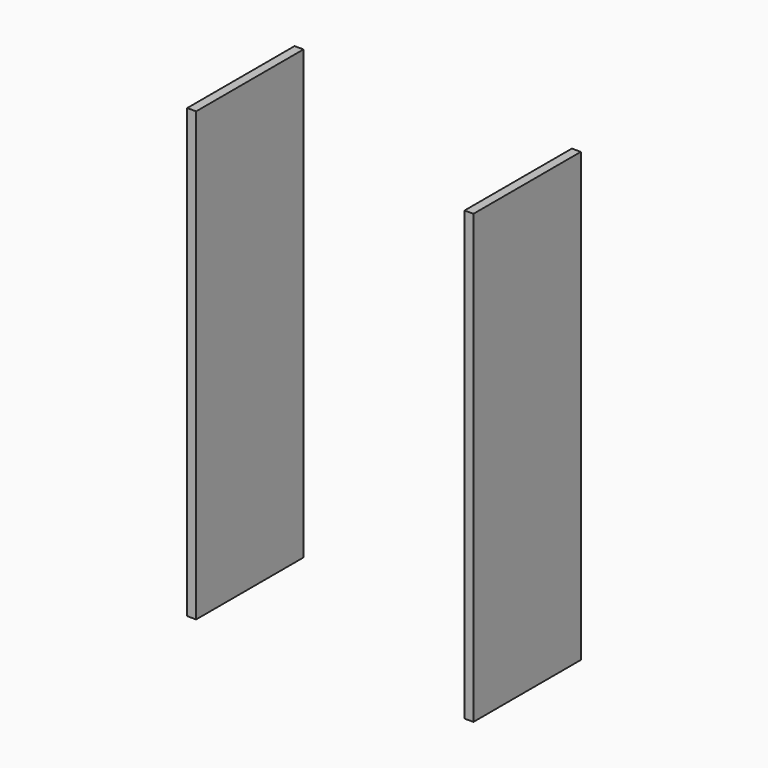
from build123d import *

# Parameters (mm, degrees)
F2_W     = 300
F2_H     = 1000
F4_DEPTH = 20
F3_W     = 300
F3_H     = 1000
F5_DEPTH = 20


with BuildPart() as f4:
    # F2 (on offset) → F4 (new body)
    with BuildSketch(Plane.YZ.offset(-300)):
        with Locations((-250, 0)):
            Rectangle(F2_W, F2_H)
    extrude(amount=-F4_DEPTH)


with BuildPart() as f5:
    # F3 (on offset) → F5 (new body)
    with BuildSketch(Plane.YZ.offset(300)):
        with Locations((-250, 0)):
            Rectangle(F3_W, F3_H)
    extrude(amount=F5_DEPTH)


solid = Compound([f4.part, f5.part])
